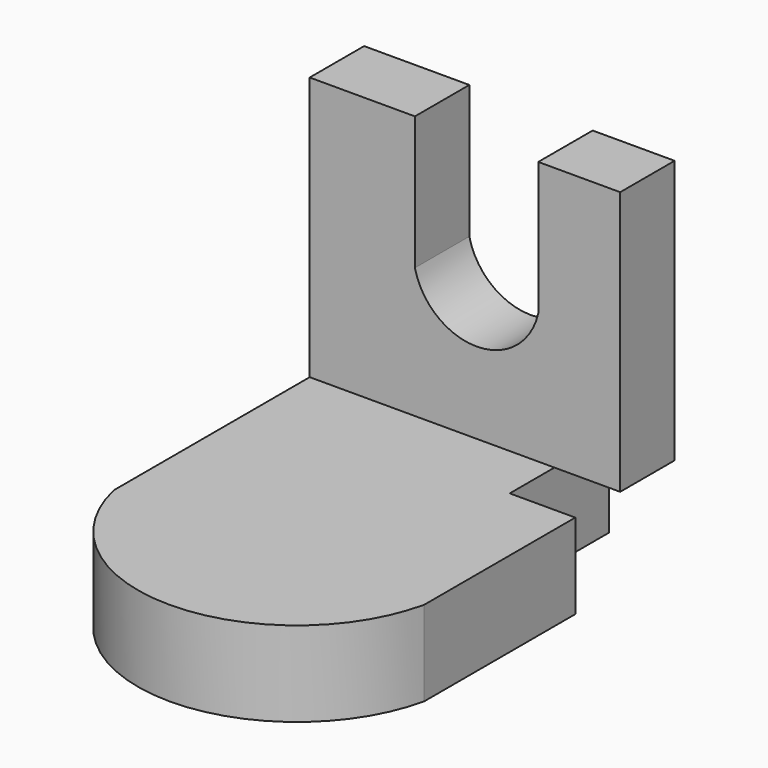
from build123d import *

# Parameters (mm, degrees)
F1_DEPTH = 12.7
F3_DEPTH = 10.16


with BuildPart() as f1:
    # F0 (on Top) → F1 (new body)
    with BuildSketch(Plane.XY):
        with BuildLine():
            Line((0, 27.773257), (-36.551334, 27.773257))
            Line((-36.551334, 27.773257), (-36.551334, -8.778076))
            ThreePointArc((-36.551334, -8.778076), (-13.38297, -27.332701), (9.785393, -8.778076))
            Line((9.785393, -8.778076), (9.785393, 19.426888))
            Line((9.785393, 19.426888), (0, 19.426888))
            Line((0, 19.426888), (0, 27.773257))
        make_face()
    extrude(amount=F1_DEPTH)

    # F2 (on face) → F3 (join)
    with BuildSketch(Plane(origin=(0, 27.773257, 0), x_dir=(-1, 0, 0), z_dir=(0, 1, 0))):
        with BuildLine():
            Line((0, 0), (36.551334, 0))
            Line((36.551334, 0), (36.551334, 52.096579))
            Line((36.551334, 52.096579), (20.838689, 52.096579))
            Line((20.838689, 52.096579), (20.838689, 32.179791))
            ThreePointArc((20.838689, 32.179791), (11.628905, 24.830871), (2.419121, 32.179791))
            Line((2.419121, 32.179791), (2.419121, 52.096579))
            Line((2.419121, 52.096579), (-9.817014, 52.096579))
            Line((-9.817014, 52.096579), (-9.817014, 12.7))
            Line((-9.817014, 12.7), (0, 12.7))
            Line((0, 12.7), (0, 0))
        make_face()
    extrude(amount=F3_DEPTH)


solid = f1.part
